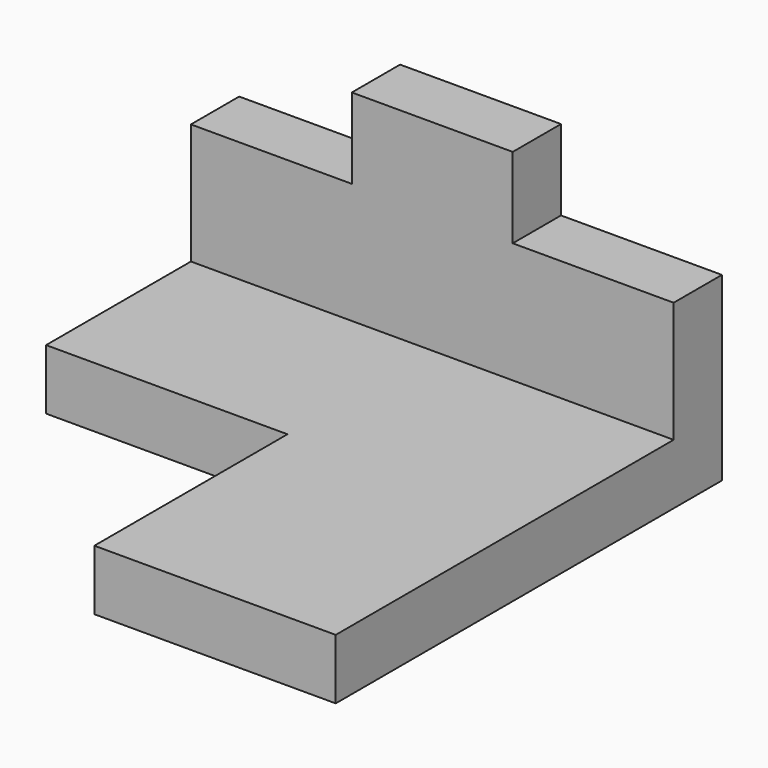
from build123d import *

# Parameters (mm, degrees)
F0_W     = 120
F0_H     = 15
F1_DEPTH = 15
F2_W     = 120
F2_H     = 15
F3_DEPTH = 15


with BuildPart() as f1:
    # F0 (on Front) → F1 (new body)
    with BuildSketch(Plane.XZ):
        Polygon((0, 45), (0, 15), (120, 15), (120, 45), (80, 45), (80, 65), (40, 65), (40, 45), align=None)
        with Locations((60, 7.5)):
            Rectangle(F0_W, F0_H)
    extrude(amount=F1_DEPTH)

    # F2 (on face) → F3 (join)
    with BuildSketch(Plane(origin=(0, 0, 0), x_dir=(1, 0, 0), z_dir=(0, 0, -1))):
        with Locations((60, 7.5)):
            Rectangle(F2_W, F2_H)
        Polygon((0, 60), (0, 15), (120, 15), (120, 120), (60, 120), (60, 60), align=None)
    extrude(amount=-F3_DEPTH)


solid = f1.part
